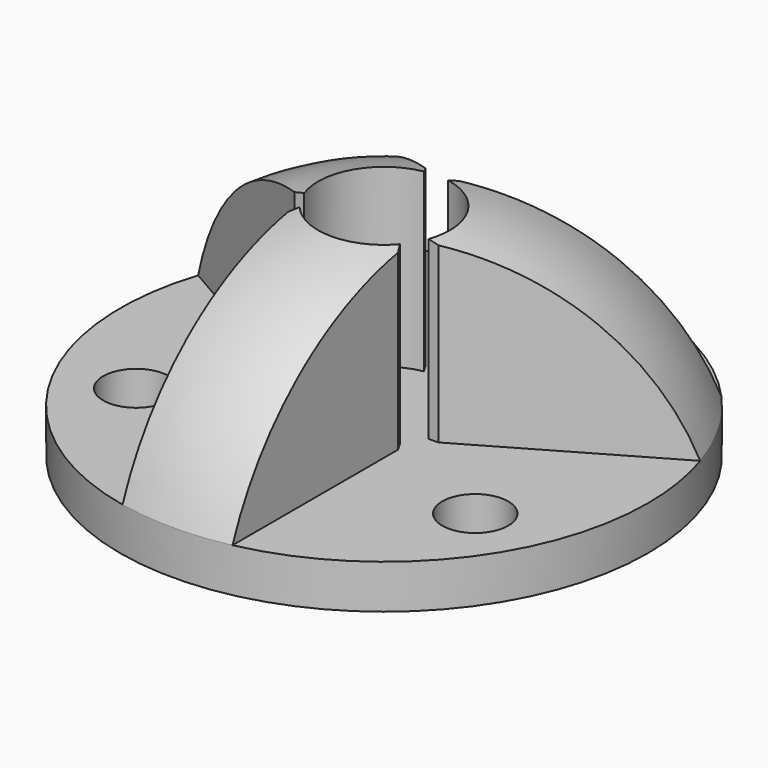
from build123d import *

# Parameters (mm, degrees)
CYLINDER_R            = 12
CYLINDER_DEPTH        = 2
SKETCH_R              = 1.5
POCKET_DEPTH          = 5
POLARPATTERN_COUNT    = 3
REVOLUTION_ANGLE      = 360
BOX_W                 = 12
BOX_H                 = 11
BOX_DEPTH             = 11
BOX_MIRRORED_2_W      = 12
BOX_MIRRORED_2_H      = 11
BOX_MIRRORED_2_DEPTH  = 11
POLARPATTERN001_COUNT = 3


with BuildPart() as part:
    # Cylinder → Cylinder (join)
    with BuildSketch(Plane.XY):
        Circle(CYLINDER_R)
    extrude(amount=CYLINDER_DEPTH)

    # Sketch → Pocket (cut)
    with BuildSketch(Plane.XY):
        with Locations((0, 8.9)):
            Circle(SKETCH_R)
    pocket = extrude(amount=POCKET_DEPTH, mode=Mode.SUBTRACT)

    # PolarPattern: Pocket ×3 about axis
    polarpattern_axis = Axis((0, 0, 0), (0, 0, 1))
    for i in range(1, POLARPATTERN_COUNT):
        add(pocket.rotate(polarpattern_axis, i * 360 / POLARPATTERN_COUNT), mode=Mode.SUBTRACT)

    # Sketch001 → Revolution (revolve, symmetric)
    with BuildSketch(Plane.YZ) as revolution_sk:
        with BuildLine():
            Line((-12, 2), (-3, 2))
            Line((-3, 2), (-3, 10))
            ThreePointArc((-3, 10), (-8.5, 7.125), (-12, 2))
        make_face()
    revolve(axis=Axis((0, 0, 0), (0, 0, 1)), revolution_arc=REVOLUTION_ANGLE / 2)
    revolve(revolution_sk.sketch, axis=Axis((0, 0, 0), (0, 0, -1)), revolution_arc=REVOLUTION_ANGLE / 2)

    # Box → Box (cut)
    with BuildSketch(Plane(origin=(2.5, -13, 2), x_dir=(0, 1, 0), z_dir=(1, 0, 0))):
        with Locations((6, 5.5)):
            Rectangle(BOX_W, BOX_H)
    box = extrude(amount=BOX_DEPTH, mode=Mode.SUBTRACT)

    # Box Mirrored 2 → Box Mirrored 2 (cut)
    with BuildSketch(Plane(origin=(-2.5, -13, 2), x_dir=(0, 1, 0), z_dir=(1, 0, 0))):
        with Locations((6, 5.5)):
            Rectangle(BOX_MIRRORED_2_W, BOX_MIRRORED_2_H)
    box_mirrored_2 = extrude(amount=-BOX_MIRRORED_2_DEPTH, mode=Mode.SUBTRACT)

    # PolarPattern001: Box, Box Mirrored 2 ×3 about axis
    polarpattern001_axis = Axis((0, 0, 0), (0, 0, 1))
    for i in range(1, POLARPATTERN001_COUNT):
        add(box.rotate(polarpattern001_axis, i * 360 / POLARPATTERN001_COUNT), mode=Mode.SUBTRACT)
        add(box_mirrored_2.rotate(polarpattern001_axis, i * 360 / POLARPATTERN001_COUNT), mode=Mode.SUBTRACT)


solid = part.part
